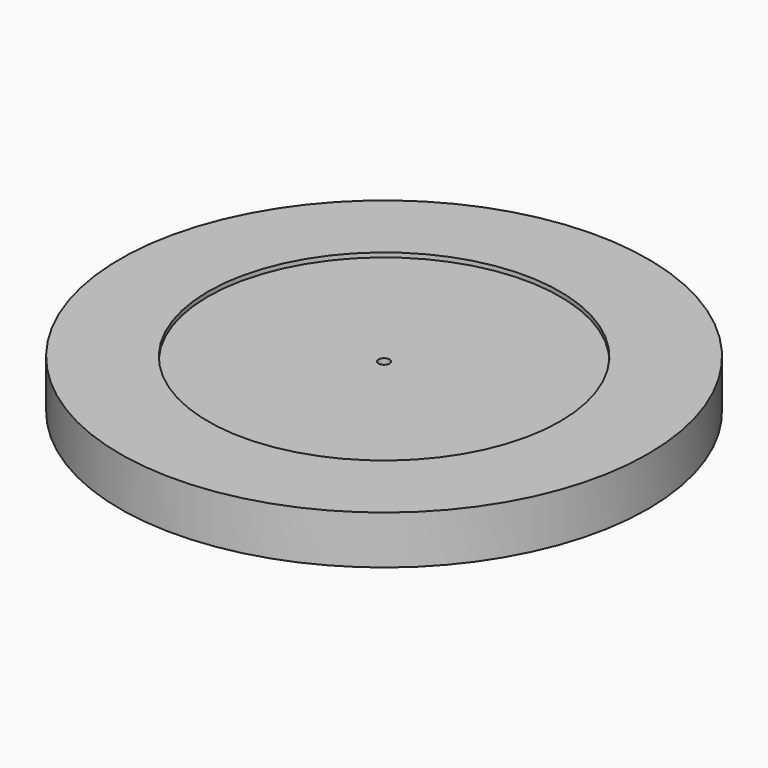
from build123d import *

# Parameters (mm, degrees)
F0_R     = 152.4
F1_DEPTH = 27.94
F2_R     = 3.2385
F3_DEPTH = 27.94
F5_R     = 101.6
F6_DEPTH = 2.54


with BuildPart() as f1:
    # F0 (on Top) → F1 (new body)
    with BuildSketch(Plane.XY):
        Circle(F0_R)
    extrude(amount=F1_DEPTH)

    # F2 (on face) → F3 (cut, through all)
    with BuildSketch(Plane.XY.offset(27.94)):
        Circle(F2_R)
    extrude(amount=-F3_DEPTH, mode=Mode.SUBTRACT)

    # F5 (on face) → F6 (cut)
    with BuildSketch(Plane.XY.offset(27.94)):
        Circle(F5_R)
    extrude(amount=-F6_DEPTH, mode=Mode.SUBTRACT)


solid = f1.part
